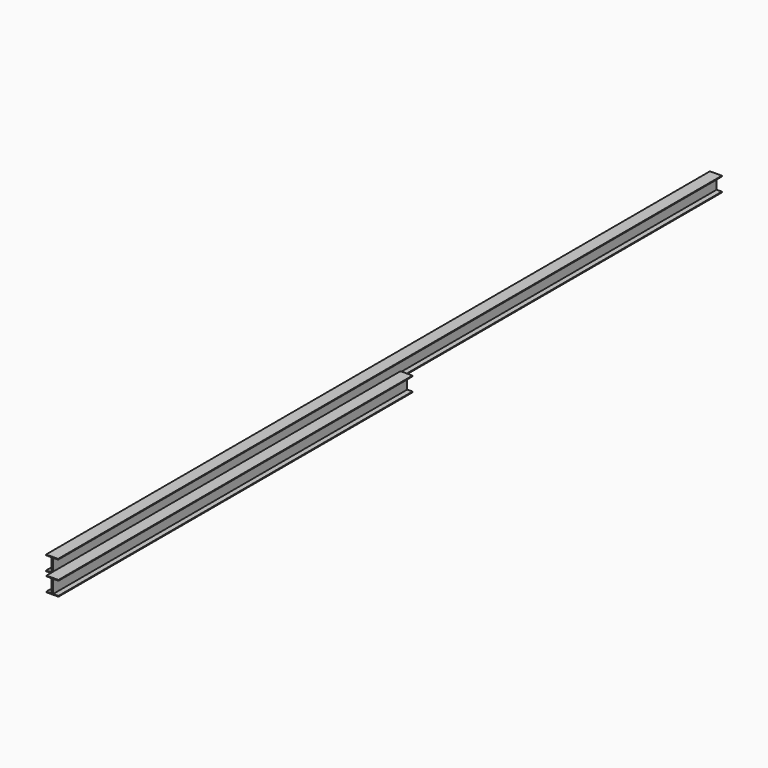
from build123d import *

# Parameters (mm, degrees)
F0_W     = 16
F0_H     = 144
F1_DEPTH = 4500
F2_DEPTH = 4800


with BuildPart() as f1:
    # F0 (on Front) → F1 (new body, symmetric)
    with BuildSketch(Plane.XZ):
        Polygon((-65, 80), (-8, 80), (8, 80), (65, 80), (65, 88), (-65, 88), align=None)
        with Locations((0, 8)):
            Rectangle(F0_W, F0_H)
        Polygon((8, -64), (-8, -64), (-65, -64), (-65, -72), (65, -72), (65, -64), align=None)
    extrude(amount=F1_DEPTH, both=True)


with BuildPart() as f2:
    # F0 (on Front) → F2 (new body)
    with BuildSketch(Plane.XZ):
        Polygon((179.0666431189, 80), (236.0666431189, 80), (252.0666431189, 80), (309.0666431189, 80), (309.0666431189, 88), (179.0666431189, 88), align=None)
        with Locations((244.0666431189, 8)):
            Rectangle(F0_W, F0_H)
        Polygon((252.0666431189, -64), (236.0666431189, -64), (179.0666431189, -64), (179.0666431189, -72), (309.0666431189, -72), (309.0666431189, -64), align=None)
    extrude(amount=F2_DEPTH)


solid = Compound([f1.part, f2.part])
